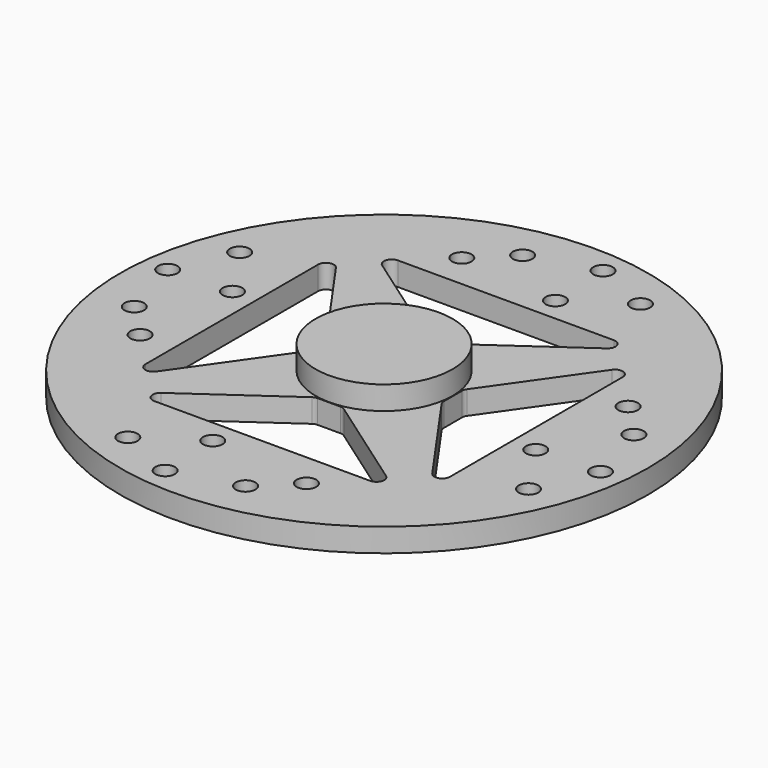
from build123d import *

# Parameters (mm, degrees)
F1_R     = 67.5
F1_R_2   = 2.5
F1_R_3   = 17.5
F2_DEPTH = 6
F0_R     = 17.5
F3_DEPTH = 12


with BuildPart() as f2:
    # F1 (on face) → F2 (new body)
    with BuildSketch(Plane.XY):
        Circle(F1_R)
        with Locations((-21.950199, -54.490424)):
            Circle(F1_R_2, mode=Mode.SUBTRACT)
        with Locations((-7.146533, -61.046224)):
            Circle(F1_R_2, mode=Mode.SUBTRACT)
        with Locations((-7.802248, -45.019042)):
            Circle(F1_R_2, mode=Mode.SUBTRACT)
        with Locations((-47.73964, -18.328615)):
            Circle(F1_R_2, mode=Mode.SUBTRACT)
        with Locations((-56.234829, -9.563138)):
            Circle(F1_R_2, mode=Mode.SUBTRACT)
        with Locations((9.563138, -56.234829)):
            Circle(F1_R_2, mode=Mode.SUBTRACT)
        with Locations((18.328615, -47.73964)):
            Circle(F1_R_2, mode=Mode.SUBTRACT)
        with BuildLine():
            Line((-28.752191, -35.313599), (-4.075158, -17.97025))
            ThreePointArc((-4.075158, -17.97025), (-3.528223, -17.69964), (-2.925146, -17.606548))
            Line((-2.925146, -17.606548), (0, -17.606548))
            Line((0, -17.606548), (2.925146, -17.606548))
            ThreePointArc((2.925146, -17.606548), (3.528223, -17.69964), (4.075158, -17.97025))
            Line((4.075158, -17.97025), (28.752191, -35.313599))
            ThreePointArc((28.752191, -35.313599), (29.509087, -37.552974), (27.602179, -38.949897))
            Line((27.602179, -38.949897), (0, -38.949897))
            Line((0, -38.949897), (-27.602179, -38.949897))
            ThreePointArc((-27.602179, -38.949897), (-29.509087, -37.552974), (-28.752191, -35.313599))
        make_face(mode=Mode.SUBTRACT)
        with Locations((54.490424, -21.950199)):
            Circle(F1_R_2, mode=Mode.SUBTRACT)
        with Locations((45.019042, -7.802248)):
            Circle(F1_R_2, mode=Mode.SUBTRACT)
        with Locations((61.046224, -7.146533)):
            Circle(F1_R_2, mode=Mode.SUBTRACT)
        with Locations((-61.046224, 7.146533)):
            Circle(F1_R_2, mode=Mode.SUBTRACT)
        with Locations((-45.019042, 7.802248)):
            Circle(F1_R_2, mode=Mode.SUBTRACT)
        with Locations((-54.490424, 21.950199)):
            Circle(F1_R_2, mode=Mode.SUBTRACT)
        with BuildLine():
            Line((-35.313599, 28.752191), (-17.97025, 4.075158))
            ThreePointArc((-17.97025, 4.075158), (-17.69964, 3.528223), (-17.606548, 2.925146))
            Line((-17.606548, 2.925146), (-17.606548, 0))
            Line((-17.606548, 0), (-17.606548, -2.925146))
            ThreePointArc((-17.606548, -2.925146), (-17.69964, -3.528223), (-17.97025, -4.075158))
            Line((-17.97025, -4.075158), (-35.313599, -28.752191))
            ThreePointArc((-35.313599, -28.752191), (-37.552974, -29.509087), (-38.949897, -27.602179))
            Line((-38.949897, -27.602179), (-38.949897, 0))
            Line((-38.949897, 0), (-38.949897, 27.602179))
            ThreePointArc((-38.949897, 27.602179), (-37.552974, 29.509087), (-35.313599, 28.752191))
        make_face(mode=Mode.SUBTRACT)
        with Locations((-18.328615, 47.73964)):
            Circle(F1_R_2, mode=Mode.SUBTRACT)
        with Locations((-9.563138, 56.234829)):
            Circle(F1_R_2, mode=Mode.SUBTRACT)
        Circle(F1_R_3, mode=Mode.SUBTRACT)
        with BuildLine():
            Line((35.313599, -28.752191), (17.97025, -4.075158))
            ThreePointArc((17.97025, -4.075158), (17.69964, -3.528223), (17.606548, -2.925146))
            Line((17.606548, -2.925146), (17.606548, 0))
            Line((17.606548, 0), (17.606548, 2.925146))
            ThreePointArc((17.606548, 2.925146), (17.69964, 3.528223), (17.97025, 4.075158))
            Line((17.97025, 4.075158), (35.313599, 28.752191))
            ThreePointArc((35.313599, 28.752191), (37.552974, 29.509087), (38.949897, 27.602179))
            Line((38.949897, 27.602179), (38.949897, 0))
            Line((38.949897, 0), (38.949897, -27.602179))
            ThreePointArc((38.949897, -27.602179), (37.552974, -29.509087), (35.313599, -28.752191))
        make_face(mode=Mode.SUBTRACT)
        with BuildLine():
            ThreePointArc((27.602179, 38.949897), (29.509087, 37.552974), (28.752191, 35.313599))
            Line((28.752191, 35.313599), (4.075158, 17.97025))
            ThreePointArc((4.075158, 17.97025), (3.528223, 17.69964), (2.925146, 17.606548))
            Line((2.925146, 17.606548), (0, 17.606548))
            Line((0, 17.606548), (-2.925146, 17.606548))
            ThreePointArc((-2.925146, 17.606548), (-3.528223, 17.69964), (-4.075158, 17.97025))
            Line((-4.075158, 17.97025), (-28.752191, 35.313599))
            ThreePointArc((-28.752191, 35.313599), (-29.509087, 37.552974), (-27.602179, 38.949897))
            Line((-27.602179, 38.949897), (0, 38.949897))
            Line((0, 38.949897), (27.602179, 38.949897))
        make_face(mode=Mode.SUBTRACT)
        with Locations((56.234829, 9.563138)):
            Circle(F1_R_2, mode=Mode.SUBTRACT)
        with Locations((47.73964, 18.328615)):
            Circle(F1_R_2, mode=Mode.SUBTRACT)
        with Locations((7.802248, 45.019042)):
            Circle(F1_R_2, mode=Mode.SUBTRACT)
        with Locations((7.146533, 61.046224)):
            Circle(F1_R_2, mode=Mode.SUBTRACT)
        with Locations((21.950199, 54.490424)):
            Circle(F1_R_2, mode=Mode.SUBTRACT)
    extrude(amount=F2_DEPTH)

    # F0 (on Top) → F3 (join)
    with BuildSketch(Plane.XY):
        Circle(F0_R)
    extrude(amount=F3_DEPTH)


solid = f2.part
